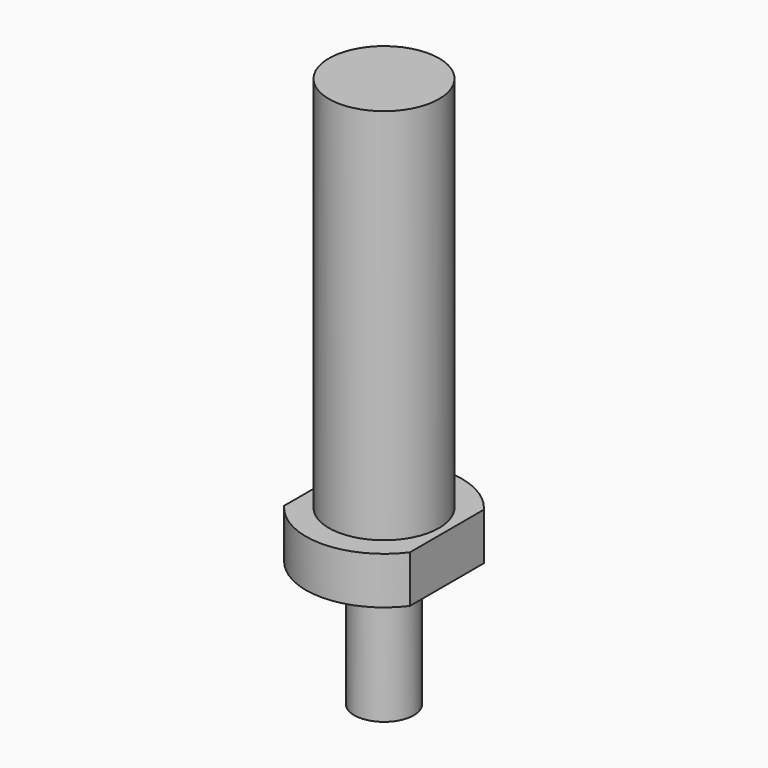
from build123d import *

# Parameters (mm, degrees)
F0_R     = 11.1125
F1_DEPTH = 76.2
F2_R     = 15.748
F3_DEPTH = 9.525
F4_R     = 6
F5_DEPTH = 25.4
F6_R     = 6
F6_R_2   = 4.8895
F7_DEPTH = 2.794
F8_W     = 13.440132
F8_H     = 49.0506
F9_DEPTH = 85.726


with BuildPart() as f1:
    # F0 (on Top) → F1 (new body)
    with BuildSketch(Plane.XY):
        Circle(F0_R)
    extrude(amount=F1_DEPTH)

    # F2 (on face) → F3 (join)
    with BuildSketch(Plane(origin=(0, 0, 0), x_dir=(1, 0, 0), z_dir=(0, 0, -1))):
        Circle(F2_R)
    extrude(amount=F3_DEPTH)

    # F4 (on face) → F5 (join)
    with BuildSketch(Plane(origin=(0, 0, -9.525), x_dir=(1, 0, 0), z_dir=(0, 0, -1))):
        Circle(F4_R)
    extrude(amount=F5_DEPTH)

    # F6 (on face) → F7 (cut)
    with BuildSketch(Plane(origin=(0, 0, -9.525), x_dir=(1, 0, 0), z_dir=(0, 0, -1))):
        Circle(F6_R)
        Circle(F6_R_2, mode=Mode.SUBTRACT)
    extrude(amount=F7_DEPTH, mode=Mode.SUBTRACT)

    # F8 (on face) → F9 (cut, through all)
    with BuildSketch(Plane(origin=(0, 0, -9.525), x_dir=(1, 0, 0), z_dir=(0, 0, -1))):
        with Locations((-19.420066, 0)):
            Rectangle(F8_W, F8_H)
        with Locations((19.420066, 0)):
            Rectangle(F8_W, F8_H)
    extrude(amount=-F9_DEPTH, mode=Mode.SUBTRACT)


solid = f1.part
